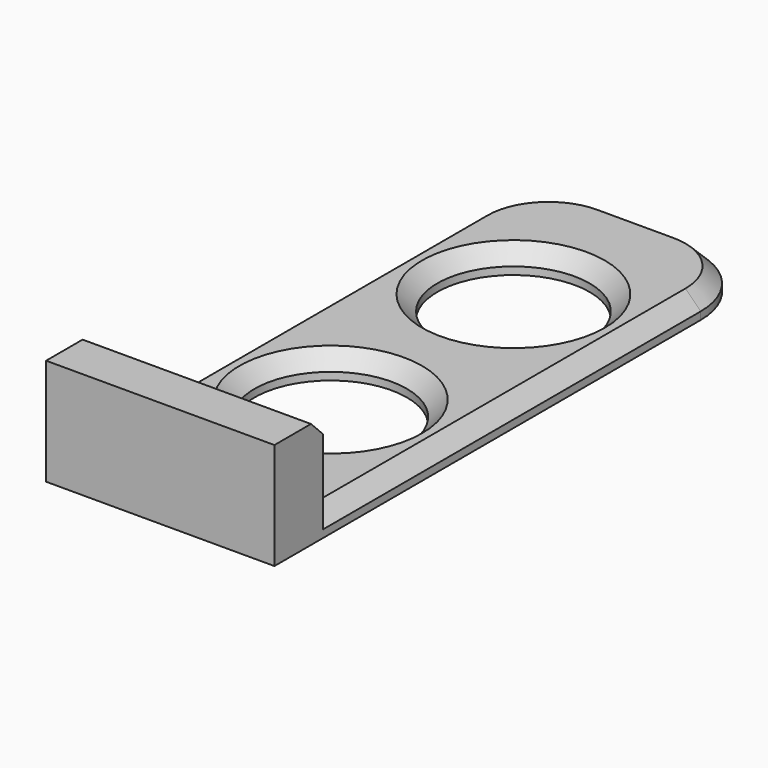
from build123d import *

# Parameters (mm, degrees)
F0_W     = 30
F0_H     = 80
F1_DEPTH = 3
F2_W     = 30
F2_H     = 8
F3_DEPTH = 11
F4_R     = 10
F5_R     = 10
F6_DEPTH = 3.001
F7_SIZE  = 2


with BuildPart() as f1:
    # F0 (on Top) → F1 (new body)
    with BuildSketch(Plane.XY):
        Rectangle(F0_W, F0_H)
    extrude(amount=F1_DEPTH)

    # F2 (on face) → F3 (join)
    with BuildSketch(Plane.XY.offset(3)):
        with Locations((0, -36)):
            Rectangle(F2_W, F2_H)
    extrude(amount=F3_DEPTH)

    # F4
    f4_edges = [f1.edges().sort_by_distance(p)[0] for p in [
        (-15, 40, 1.5),
        (15, 40, 1.5),
    ]]
    fillet(f4_edges, radius=F4_R)

    # F5 (on face) → F6 (cut, through all)
    with BuildSketch(Plane.XY.offset(3)):
        with Locations((0, 18)):
            Circle(F5_R)
        with Locations((0, -12)):
            Circle(F5_R)
    extrude(amount=-F6_DEPTH, mode=Mode.SUBTRACT)

    # F7
    f7_edges = [f1.edges().sort_by_distance(p)[0] for p in [
        (0, -32, 14),
        (-15, -1, 3),
        (-10, 18, 3),
        (-10, -12, 3),
    ]]
    chamfer(f7_edges, length=F7_SIZE)


solid = f1.part
